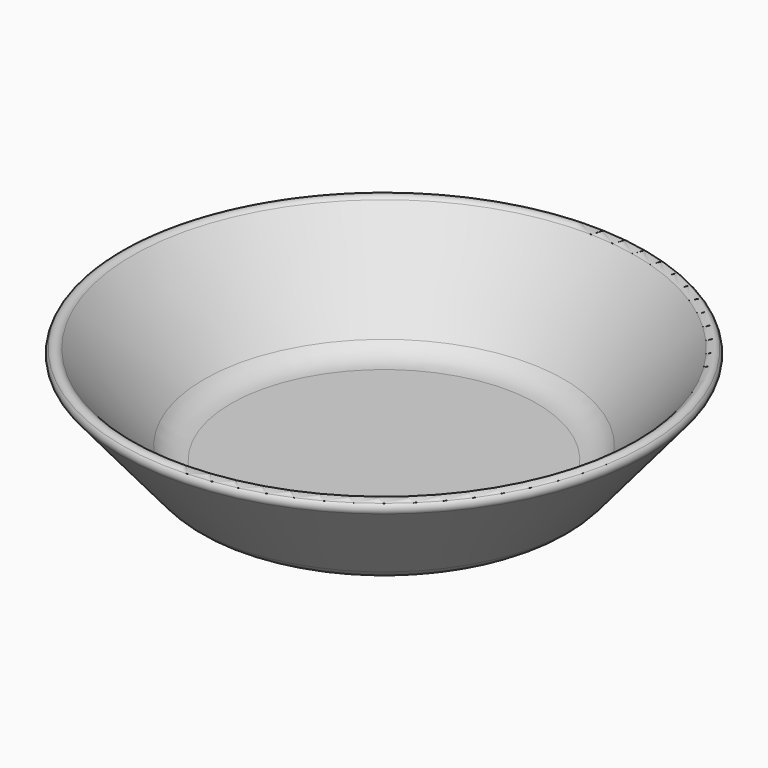
from build123d import *


with BuildPart() as f1:
    # F0 (on Front) → F1 (revolve)
    with BuildSketch(Plane.XZ):
        with BuildLine():
            Line((21.735846, 0), (0, 0))
            Line((0, 0), (0, -2))
            Line((0, -2), (22.668462, -2))
            ThreePointArc((22.668462, -2), (24.781553, -1.531539), (26.498684, -0.213938))
            Line((26.498684, -0.213938), (37.29646, 12.65435))
            ThreePointArc((37.29646, 12.65435), (37.530255, 13.315056), (37.272937, 13.96696))
            ThreePointArc((37.272937, 13.96696), (36.512497, 14.296977), (35.764371, 13.939925))
            Line((35.764371, 13.939925), (25.566069, 1.786062))
            ThreePointArc((25.566069, 1.786062), (23.848938, 0.468461), (21.735846, 0))
        make_face()
    revolve(axis=Axis((0, 0, 22.936326), (0, 0, 1)))


solid = f1.part
